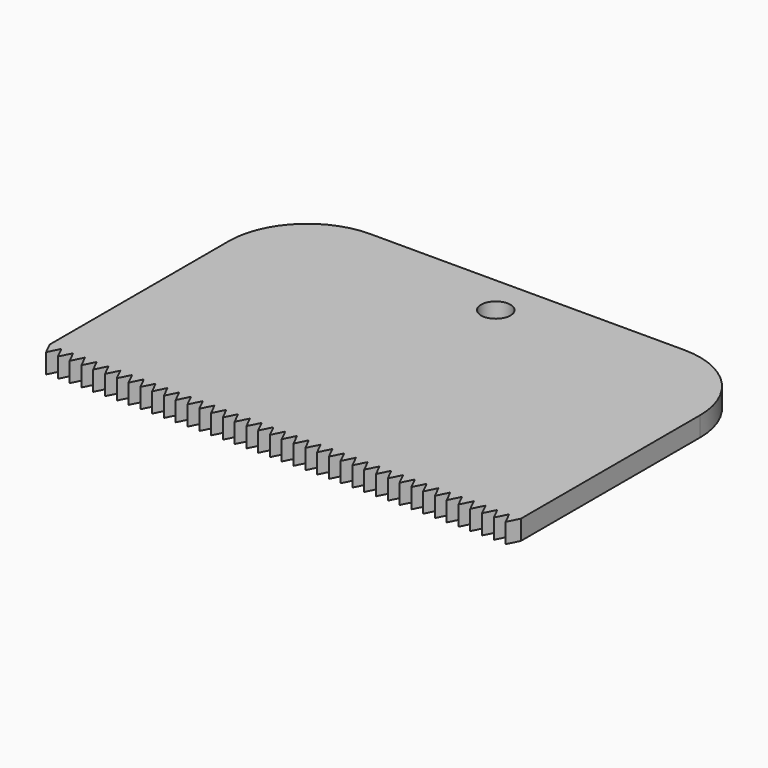
from build123d import *

# Parameters (mm, degrees)
F0_R     = 2.3749
F1_DEPTH = 3.175
F3_DEPTH = 25.4


with BuildPart() as f1:
    # F0 (on Top) → F1 (new body)
    with BuildSketch(Plane.XY):
        with BuildLine():
            Line((-38.1, -9.525), (38.1, -9.525))
            Line((38.1, -9.525), (38.1, 28.575))
            ThreePointArc((38.1, 28.575), (34.380256, 37.555256), (25.4, 41.275))
            Line((25.4, 41.275), (3.322108, 41.275))
            Line((3.322108, 41.275), (-25.4, 41.275))
            ThreePointArc((-25.4, 41.275), (-34.380256, 37.555256), (-38.1, 28.575))
            Line((-38.1, 28.575), (-38.1, -9.525))
        make_face()
        with Locations((0, 34.925)):
            Circle(F0_R, mode=Mode.SUBTRACT)
    extrude(amount=F1_DEPTH)

    # F2 (on face) → F3 (cut)
    with BuildSketch(Plane.XY.offset(3.175)):
        Polygon((-38.1, -7.62), (-38.1, -14.148636), (38.1, -14.148636), (38.1, -7.62), (37.1475, -9.525), (36.195, -7.62), (35.2425, -9.525), (34.29, -7.62), (33.3375, -9.525), (32.385, -7.62), (31.4325, -9.525), (30.48, -7.62), (29.5275, -9.525), (28.575, -7.62), (27.6225, -9.525), (26.67, -7.62), (25.7175, -9.525), (24.765, -7.62), (23.8125, -9.525), (22.86, -7.62), (21.9075, -9.525), (20.955, -7.62), (20.0025, -9.525), (19.05, -7.62), (18.0975, -9.525), (17.145, -7.62), (16.1925, -9.525), (15.24, -7.62), (14.2875, -9.525), (13.335, -7.62), (12.3825, -9.525), (11.43, -7.62), (10.4775, -9.525), (9.525, -7.62), (8.5725, -9.525), (7.62, -7.62), (6.6675, -9.525), (5.715, -7.62), (4.7625, -9.525), (3.81, -7.62), (2.8575, -9.525), (1.905, -7.62), (0.9525, -9.525), (0, -7.62), (-0.9525, -9.525), (-1.905, -7.62), (-2.8575, -9.525), (-3.81, -7.62), (-4.7625, -9.525), (-5.715, -7.62), (-6.6675, -9.525), (-7.62, -7.62), (-8.5725, -9.525), (-9.525, -7.62), (-10.4775, -9.525), (-11.43, -7.62), (-12.3825, -9.525), (-13.335, -7.62), (-14.2875, -9.525), (-15.24, -7.62), (-16.1925, -9.525), (-17.145, -7.62), (-18.0975, -9.525), (-19.05, -7.62), (-20.0025, -9.525), (-20.955, -7.62), (-21.9075, -9.525), (-22.86, -7.62), (-23.8125, -9.525), (-24.765, -7.62), (-25.7175, -9.525), (-26.67, -7.62), (-27.6225, -9.525), (-28.575, -7.62), (-29.5275, -9.525), (-30.48, -7.62), (-31.4325, -9.525), (-32.385, -7.62), (-33.3375, -9.525), (-34.29, -7.62), (-35.2425, -9.525), (-36.195, -7.62), (-37.1475, -9.525), align=None)
    extrude(amount=-F3_DEPTH, mode=Mode.SUBTRACT)


solid = f1.part
